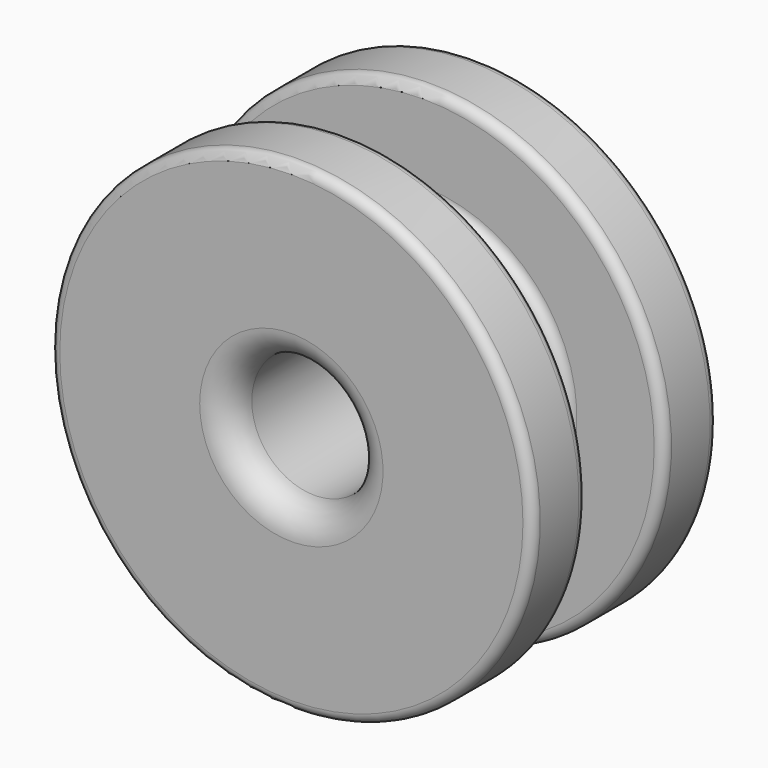
from build123d import *

# Parameters (mm, degrees)
F2_R = 1
F3_R = 3


with BuildPart() as f1:
    # F0 (on Top) → F1 (revolve)
    with BuildSketch(Plane.XY):
        Polygon((-25, 0), (-6.5, 0), (-6.5, 24), (-25, 24), (-25, 17), (-15, 17), (-15, 7), (-25, 7), align=None)
    revolve(axis=Axis((0, 12, 0), (0, 1, 0)))

    # F2
    f2_edges = [f1.edges().sort_by_distance(p)[0] for p in [
        (25, 0, 0),
        (25, 7, 0),
        (25, 17, 0),
        (25, 24, 0),
        (15, 7, 0),
        (15, 17, 0),
    ]]
    fillet(f2_edges, radius=F2_R)

    # F3
    f3_edges = [f1.edges().sort_by_distance(p)[0] for p in [
        (6.5, 24, 0),
        (6.5, 0, 0),
    ]]
    fillet(f3_edges, radius=F3_R)


solid = f1.part
